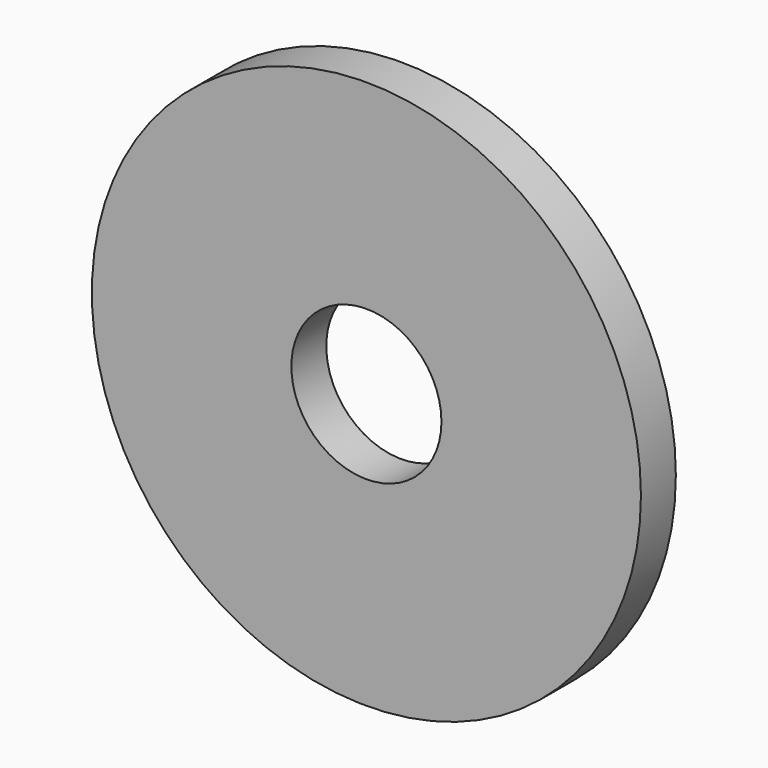
from build123d import *

# Parameters (mm, degrees)
F0_R     = 39.9512195122
F0_R_2   = 10.92
F1_DEPTH = 6.35


with BuildPart() as f1:
    # F0 (on Front) → F1 (new body)
    with BuildSketch(Plane.XZ):
        Circle(F0_R)
        with BuildLine():
            ThreePointArc((18.3109756098, -31.7155400923), (0, -36.6219512195), (-18.3109756098, -31.7155400923))
            Line((-18.3109756098, -31.7155400923), (-7.4172888628, -12.8471211647))
            ThreePointArc((-7.4172888628, -12.8471211647), (0, -14.8345777255), (7.4172888628, -12.8471211647))
            Line((7.4172888628, -12.8471211647), (18.3109756098, -31.7155400923))
        make_face(mode=Mode.SUBTRACT)
        with BuildLine():
            Line((-14.8345777255, 0), (-36.6219512195, 0))
            ThreePointArc((-36.6219512195, 0), (-31.7155400923, 18.3109756098), (-18.3109756098, 31.7155400923))
            Line((-18.3109756098, 31.7155400923), (-7.4172888628, 12.8471211647))
            ThreePointArc((-7.4172888628, 12.8471211647), (-12.8471211647, 7.4172888628), (-14.8345777255, 0))
        make_face(mode=Mode.SUBTRACT)
        Circle(F0_R_2, mode=Mode.SUBTRACT)
        with BuildLine():
            ThreePointArc((18.3109756098, 31.7155400923), (31.7155400923, 18.3109756098), (36.6219512195, 0))
            Line((36.6219512195, 0), (14.8345777255, 0))
            ThreePointArc((14.8345777255, 0), (12.8471211647, 7.4172888628), (7.4172888628, 12.8471211647))
            Line((7.4172888628, 12.8471211647), (18.3109756098, 31.7155400923))
        make_face(mode=Mode.SUBTRACT)
        Circle(F0_R)
        with BuildLine():
            ThreePointArc((18.3109756098, -31.7155400923), (0, -36.6219512195), (-18.3109756098, -31.7155400923))
            Line((-18.3109756098, -31.7155400923), (-7.4172888628, -12.8471211647))
            ThreePointArc((-7.4172888628, -12.8471211647), (0, -14.8345777255), (7.4172888628, -12.8471211647))
            Line((7.4172888628, -12.8471211647), (18.3109756098, -31.7155400923))
        make_face(mode=Mode.SUBTRACT)
        with BuildLine():
            Line((-14.8345777255, 0), (-36.6219512195, 0))
            ThreePointArc((-36.6219512195, 0), (-31.7155400923, 18.3109756098), (-18.3109756098, 31.7155400923))
            Line((-18.3109756098, 31.7155400923), (-7.4172888628, 12.8471211647))
            ThreePointArc((-7.4172888628, 12.8471211647), (-12.8471211647, 7.4172888628), (-14.8345777255, 0))
        make_face(mode=Mode.SUBTRACT)
        Circle(F0_R_2, mode=Mode.SUBTRACT)
        with BuildLine():
            ThreePointArc((18.3109756098, 31.7155400923), (31.7155400923, 18.3109756098), (36.6219512195, 0))
            Line((36.6219512195, 0), (14.8345777255, 0))
            ThreePointArc((14.8345777255, 0), (12.8471211647, 7.4172888628), (7.4172888628, 12.8471211647))
            Line((7.4172888628, 12.8471211647), (18.3109756098, 31.7155400923))
        make_face(mode=Mode.SUBTRACT)
        with BuildLine():
            Line((14.8345777255, 0), (36.6219512195, 0))
            ThreePointArc((36.6219512195, 0), (31.7155400923, 18.3109756098), (18.3109756098, 31.7155400923))
            Line((18.3109756098, 31.7155400923), (7.4172888628, 12.8471211647))
            ThreePointArc((7.4172888628, 12.8471211647), (12.8471211647, 7.4172888628), (14.8345777255, 0))
        make_face()
        with BuildLine():
            Line((-7.4172888628, -12.8471211647), (-18.3109756098, -31.7155400923))
            ThreePointArc((-18.3109756098, -31.7155400923), (0, -36.6219512195), (18.3109756098, -31.7155400923))
            Line((18.3109756098, -31.7155400923), (7.4172888628, -12.8471211647))
            ThreePointArc((7.4172888628, -12.8471211647), (0, -14.8345777255), (-7.4172888628, -12.8471211647))
        make_face()
        with BuildLine():
            ThreePointArc((-18.3109756098, 31.7155400923), (-31.7155400923, 18.3109756098), (-36.6219512195, 0))
            Line((-36.6219512195, 0), (-14.8345777255, 0))
            ThreePointArc((-14.8345777255, 0), (-12.8471211647, 7.4172888628), (-7.4172888628, 12.8471211647))
            Line((-7.4172888628, 12.8471211647), (-18.3109756098, 31.7155400923))
        make_face()
    extrude(amount=F1_DEPTH)


solid = f1.part
